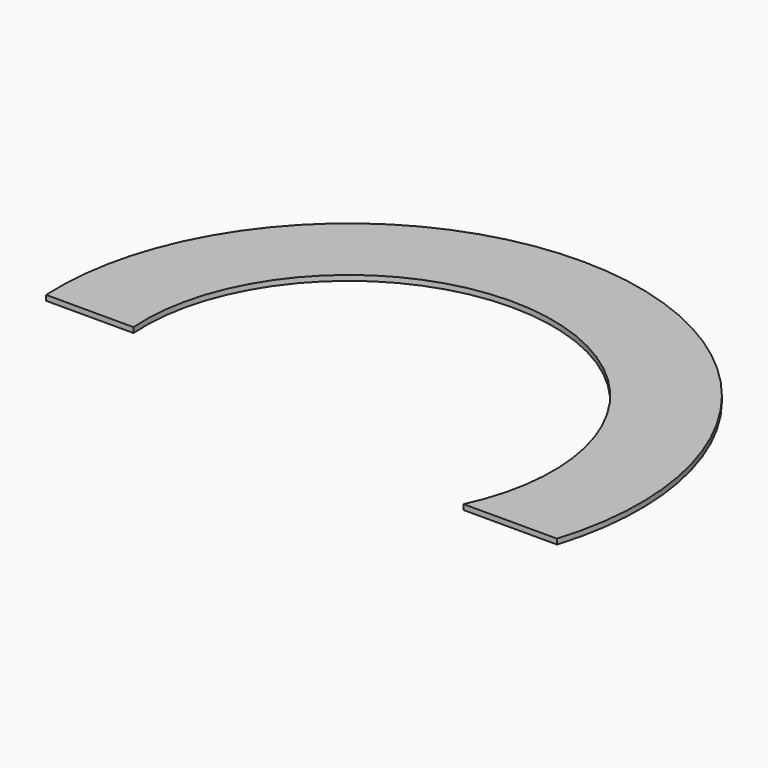
from build123d import *

# Parameters (mm, degrees)
F1_DEPTH = 18


with BuildPart() as f1:
    # F0 (on Top) → F1 (new body)
    with BuildSketch(Plane.XY):
        with BuildLine():
            ThreePointArc((-700.46645, -50), (129.221957, 690.257151), (634.9435, -300))
            Line((634.9435, -300), (956.296227, -300))
            ThreePointArc((956.296227, -300), (126.965132, 994.174194), (-1000.998961, -50.035513))
            Line((-1000.998961, -50.035513), (-999.705072, -50))
            Line((-999.705072, -50), (-700.46645, -50))
        make_face()
    extrude(amount=F1_DEPTH)


solid = f1.part
